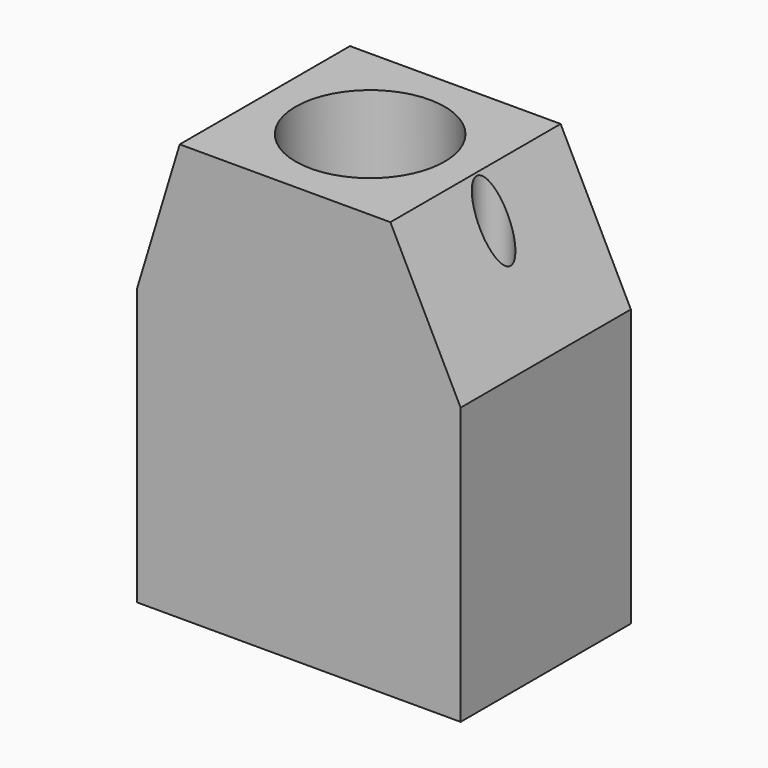
from build123d import *

# Parameters (mm, degrees)
PAD007_DEPTH    = 2.5
SKETCH015_W     = 1
SKETCH015_H     = 1
POCKET004_DEPTH = 3.75
SKETCH011_W     = 4.87
SKETCH011_H     = 4
POCKET005_DEPTH = 6.8
SKETCH012_R     = 1.75
SKETCH012_R_2   = 0.4
POCKET006_DEPTH = 5


with BuildPart() as part:
    # Sketch014 → Pad007 (new body, symmetric)
    with BuildSketch(Plane.XZ):
        Polygon((0, 0), (7.6, 0), (7.6, 6.5), (5.95, 9.8), (1, 9.8), (0, 6.5), align=None)
    extrude(amount=PAD007_DEPTH, both=True)

    # Sketch015 (on Face6 of Pad007) → Pocket004 (cut)
    with BuildSketch(Plane(origin=(0, 0, 0), x_dir=(0, 0, -1), z_dir=(-1, 0, 0))):
        with Locations((-0.5, 0)):
            Rectangle(SKETCH015_W, SKETCH015_H)
    extrude(amount=-POCKET004_DEPTH, mode=Mode.SUBTRACT)

    # Sketch011 (on Face5 of Pocket004) → Pocket005 (cut)
    with BuildSketch(Plane(origin=(0, 0, 0), x_dir=(0, 0, -1), z_dir=(-1, 0, 0))):
        with Locations((-3.435, 0)):
            Rectangle(SKETCH011_W, SKETCH011_H)
    extrude(amount=-POCKET005_DEPTH, mode=Mode.SUBTRACT)

    # Sketch012 (on Face10 of Pocket005) → Pocket006 (cut)
    with BuildSketch(Plane(origin=(0, 0, 9.8), x_dir=(-1, 0, 0), z_dir=(0, 0, 1))):
        with Locations((-3.475, 0)):
            Circle(SKETCH012_R)
        with Locations((-6.375, 0)):
            Circle(SKETCH012_R_2)
    extrude(amount=-POCKET006_DEPTH, mode=Mode.SUBTRACT)


solid = part.part
